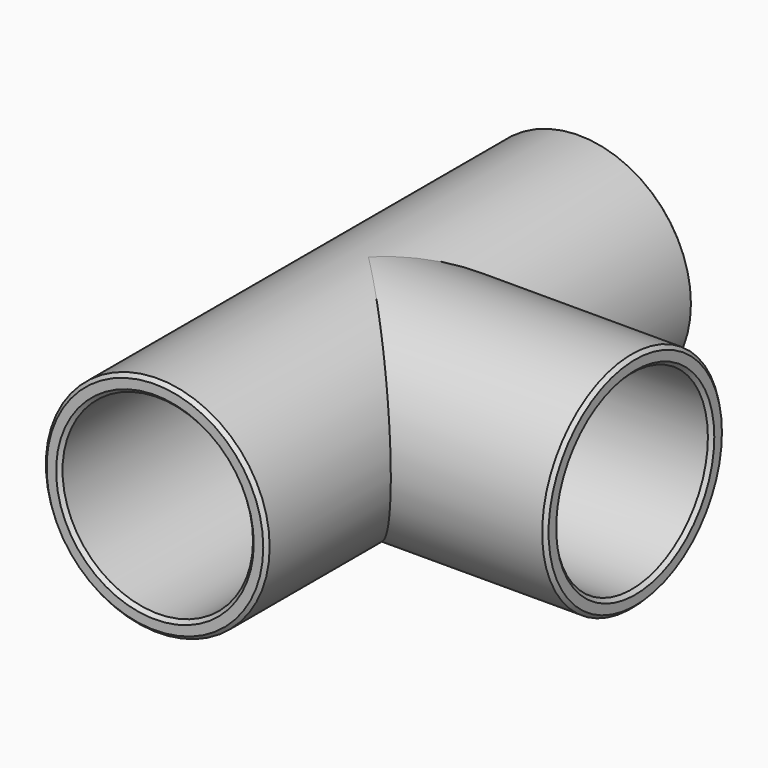
from build123d import *

# Parameters (mm, degrees)
F0_R          = 24.765
F0_R_2        = 21.082
F1_DEPTH      = 59.055
F2_R          = 24.765
F2_R_2        = 21.082
F3_DEPTH      = 59.055
F4_DEPTH      = 59.0560001
F5_DEPTH      = 59.0560001
F5_DEPTH_BACK = 59.0560001
F6_SIZE       = 0.7874
F7_SCALE      = 1.45


with BuildPart() as f1:
    # F0 (on Front) → F1 (new body, symmetric)
    with BuildSketch(Plane.XZ):
        Circle(F0_R)
        Circle(F0_R_2, mode=Mode.SUBTRACT)
    extrude(amount=F1_DEPTH, both=True)

    # F2 (on Right) → F3 (join)
    with BuildSketch(Plane.YZ):
        Circle(F2_R)
        Circle(F2_R_2, mode=Mode.SUBTRACT)
    extrude(amount=F3_DEPTH)

    # F2 (on Right) → F4 (cut, through all)
    with BuildSketch(Plane.YZ):
        Circle(F2_R_2)
    extrude(amount=F4_DEPTH, mode=Mode.SUBTRACT)

    # F0 (on Front) → F5 (cut, two sides)
    with BuildSketch(Plane.XZ) as f5_sk:
        Circle(F0_R_2)
    extrude(amount=F5_DEPTH, mode=Mode.SUBTRACT)
    extrude(f5_sk.sketch, amount=-F5_DEPTH_BACK, mode=Mode.SUBTRACT)

    # F6
    f6_edges = [f1.edges().sort_by_distance(p)[0] for p in [
        (-21.082, -59.055, 0),
        (-24.765, -59.055, 0),
        (59.055, -24.765, 0),
        (59.055, -21.082, 0),
        (-21.082, 59.055, 0),
        (-24.765, 59.055, 0),
    ]]
    chamfer(f6_edges, length=F6_SIZE)


with BuildPart() as f1_1:
    # F7: moved
    add(f1.part.scale(F7_SCALE))


solid = f1_1.part
